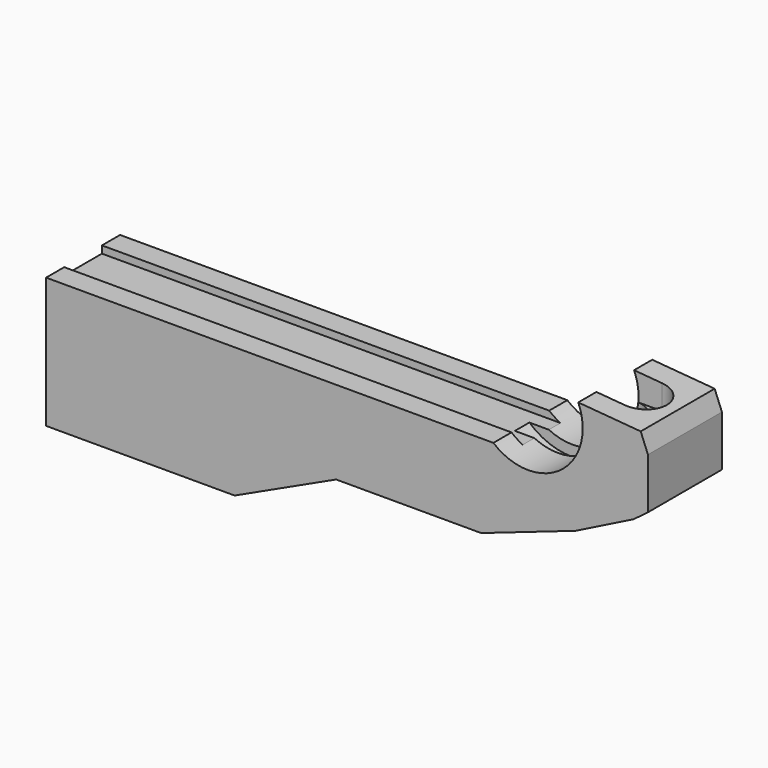
from build123d import *

# Parameters (mm, degrees)
F1_DEPTH  = 12.75
F3_DEPTH  = 2.5
F5_DEPTH  = 6.5
F7_DEPTH  = 40.9
F10_DEPTH = 27.7
F11_R     = 6
F11_R_2   = 4.9
F12_DEPTH = 30


with BuildPart() as f1:
    # F0 (on Front) → F1 (new body, symmetric)
    with BuildSketch(Plane.XZ):
        with BuildLine():
            Line((0, 36), (0, 0))
            Line((0, 0), (52, 0))
            Line((52, 0), (80, 13))
            Line((80, 13), (120, 13))
            Line((120, 13), (146, 22))
            Line((146, 22), (162, 30))
            Line((162, 30), (166, 33))
            Line((166, 33), (166, 47))
            Line((166, 47), (164, 52))
            Line((164, 52), (146.7757606487, 53.4353532793))
            ThreePointArc((146.7757606487, 53.4353532793), (147.6907523587, 50.5301477084), (148, 47.5))
            ThreePointArc((148, 47.5), (147.4913767462, 43.6270166538), (146, 40.0166852265))
            Line((146, 40.0166852265), (146, 36))
            Line((146, 36), (142.6306801421, 36))
            ThreePointArc((142.6306801421, 36), (133, 32.5), (123.3693198579, 36))
            Line((123.3693198579, 36), (0, 36))
        make_face()
        with BuildLine():
            ThreePointArc((146, 40.0166852265), (144.4921869536, 37.8599979759), (142.6306801421, 36))
            Line((142.6306801421, 36), (146, 36))
            Line((146, 36), (146, 40.0166852265))
        make_face()
    extrude(amount=F1_DEPTH, both=True)

    # F2 (on Front) → F3 (cut, symmetric)
    with BuildSketch(Plane.XZ):
        with BuildLine():
            Line((123.3693198579, 36), (119.1526175759, 36))
            ThreePointArc((119.1526175759, 36), (120.0845966785, 34.9623623819), (121.0941191002, 34))
            ThreePointArc((121.0941191002, 34), (142.9238149728, 32.4827467097), (150.0871635222, 53.1594030398))
            Line((150.0871635222, 53.1594030398), (146.7757606487, 53.4353532793))
            ThreePointArc((146.7757606487, 53.4353532793), (141.9606533855, 35.4705905837), (123.3693198579, 36))
        make_face()
    extrude(amount=F3_DEPTH, both=True, mode=Mode.SUBTRACT)

    # F4 (on Front) → F5 (cut, symmetric)
    with BuildSketch(Plane.XZ):
        Polygon((119.1526175759, 36), (0, 36), (0, 34), (121.0941191002, 34), (129.1526175759, 34), (129.1526175759, 36), align=None)
    extrude(amount=F5_DEPTH, both=True, mode=Mode.SUBTRACT)

    # F6 (on face) → F7 (cut)
    with BuildSketch(Plane.XY.offset(34)):
        with BuildLine():
            ThreePointArc((147.5, -6.5), (152.0961940777, -4.5961940777), (154, 0))
            ThreePointArc((154, 0), (152.0961940777, 4.5961940777), (147.5, 6.5))
            Line((147.5, 6.5), (147.5, -6.5))
        make_face()
        with BuildLine():
            Line((147.5, -6.5), (147.5, 6.5))
            ThreePointArc((147.5, 6.5), (141, 0), (147.5, -6.5))
        make_face()
        with BuildLine():
            ThreePointArc((147.5, -6.5), (141, 0), (147.5, 6.5))
            Line((147.5, 6.5), (132.5, 6.5))
            Line((132.5, 6.5), (132.5, -6.5))
            Line((132.5, -6.5), (147.5, -6.5))
        make_face()
    extrude(amount=F7_DEPTH, mode=Mode.SUBTRACT)

    # F9 (on offset) → F10 (cut)
    with BuildSketch(Plane.XY.offset(46)):
        with BuildLine():
            ThreePointArc((154.5, -6.5), (159.0961940777, -4.5961940777), (161, 0))
            ThreePointArc((161, 0), (159.0961940777, 4.5961940777), (154.5, 6.5))
            Line((154.5, 6.5), (154.5, -6.5))
        make_face()
        with BuildLine():
            Line((154.5, -6.5), (154.5, 6.5))
            ThreePointArc((154.5, 6.5), (148, 0), (154.5, -6.5))
        make_face()
        with BuildLine():
            ThreePointArc((154.5, -6.5), (148, 0), (154.5, 6.5))
            Line((154.5, 6.5), (139.5, 6.5))
            Line((139.5, 6.5), (139.5, -6.5))
            Line((139.5, -6.5), (154.5, -6.5))
        make_face()
    extrude(amount=F10_DEPTH, mode=Mode.SUBTRACT)

    # F11 (on face) → F12 (cut)
    with BuildSketch(Plane(origin=(0, 0, 0), x_dir=(0, -1, 0), z_dir=(-1, 0, 0))):
        with Locations((0, 21.2)):
            Circle(F11_R)
        with Locations((0, 21.2)):
            Circle(F11_R_2, mode=Mode.SUBTRACT)
        with Locations((0, 21.2)):
            Circle(F11_R_2)
    extrude(amount=-F12_DEPTH, mode=Mode.SUBTRACT)


solid = f1.part
